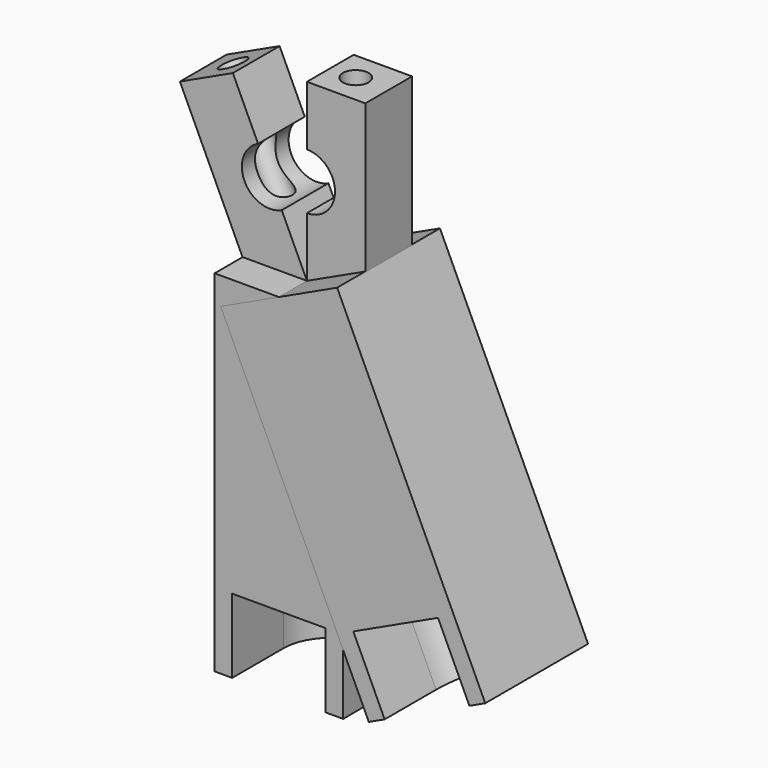
from build123d import *

# Parameters (mm, degrees)
F0_W      = 10
F0_H      = 30
F1_DEPTH  = 5
F2_R      = 4.8
F3_DEPTH  = 25
F4_R      = 2.2
F5_DEPTH  = 60
F6_W      = 22
F6_H      = 60
F7_DEPTH  = 11
F9_DEPTH  = 12.7
F12_ANGLE = 25


with BuildPart() as f1:
    # F0 (on Front) → F1 (new body, symmetric)
    with BuildSketch(Plane.XZ):
        with Locations((5, 15)):
            Rectangle(F0_W, F0_H)
    extrude(amount=F1_DEPTH, both=True)

    # F2 (on face) → F3 (cut)
    with BuildSketch(Plane.XZ.offset(5)):
        with Locations((0, 15)):
            Circle(F2_R)
    extrude(amount=-F3_DEPTH, mode=Mode.SUBTRACT)

    # F4 (on face) → F5 (cut)
    with BuildSketch(Plane.XY.offset(30)):
        with Locations((4.35, 0)):
            Circle(F4_R)
    extrude(amount=-F5_DEPTH, mode=Mode.SUBTRACT)

    # F6 (on Front) → F7 (join, symmetric)
    with BuildSketch(Plane.XZ):
        with Locations((0, -30)):
            Rectangle(F6_W, F6_H)
    extrude(amount=F7_DEPTH, both=True)

    # F8 (on face) → F9 (cut)
    with BuildSketch(Plane(origin=(0, 0, -60), x_dir=(1, 0, 0), z_dir=(0, 0, -1))):
        with BuildLine():
            Line((-8, 0), (8, 0))
            ThreePointArc((8, 0), (0, 8), (-8, 0))
        make_face()
        with BuildLine():
            ThreePointArc((-8, 0), (0, -8), (8, 0))
            Line((8, 0), (-8, 0))
        make_face()
        with BuildLine():
            ThreePointArc((-8, 0), (0, 8), (8, 0))
            Line((8, 0), (8, 11))
            Line((8, 11), (-8, 11))
            Line((-8, 11), (-8, 0))
        make_face()
    extrude(amount=-F9_DEPTH, mode=Mode.SUBTRACT)


with BuildPart() as f11_1:
    # F11: instance of F1
    add(f1.part.mirror(Plane.YZ))


with BuildPart() as f11_1_1:
    # F12: moved
    add(f11_1.part.rotate(Axis((0, -68.0958107114, 0), (0, -1, 0)), F12_ANGLE))


solid = Compound([f1.part, f11_1_1.part])
